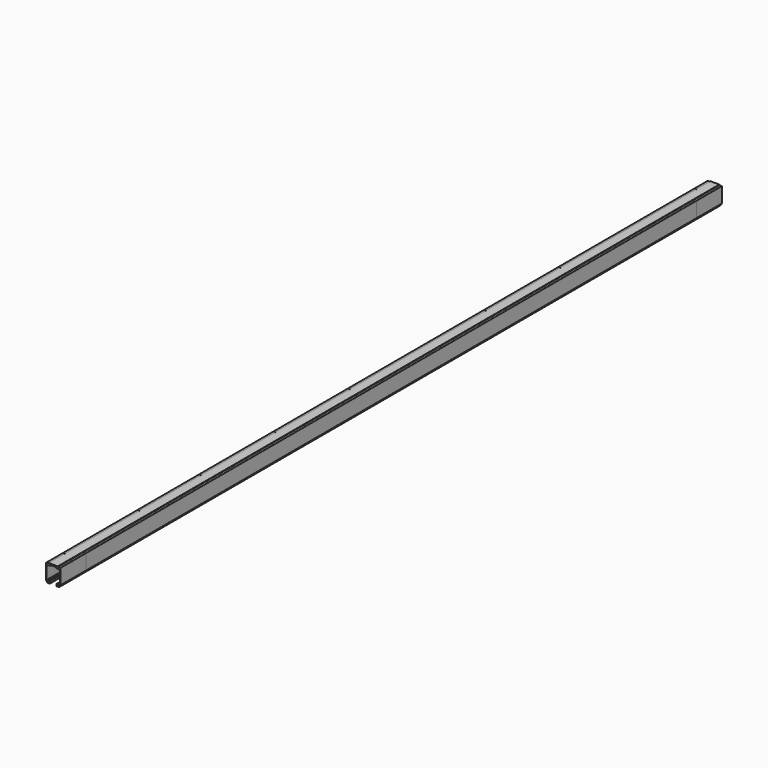
from build123d import *

# Parameters (mm, degrees)
F1_DEPTH = 2000
F2_W     = 77.452898
F2_H     = 36.363198
F3_DEPTH = 0.01
F4_W     = 77.630281
F4_H     = 36.363198
F5_DEPTH = 0.01
F6_W     = 77.450745
F6_H     = 36.363198
F7_DEPTH = 0.01
F8_W     = 77.298671
F8_H     = 36.363198
F9_DEPTH = 0.01


with BuildPart() as f1:
    # F0 (on Front) → F1 (new body)
    with BuildSketch(Plane.XZ):
        with BuildLine():
            Line((10.7, 42.5), (0, 42.5))
            Line((0, 42.5), (-10.7, 42.5))
            ThreePointArc((-10.7, 42.5), (-11.053553, 42.353553), (-11.2, 42))
            Line((-11.2, 42), (-11.2, 41.8))
            ThreePointArc((-11.2, 41.8), (-11.346447, 41.446447), (-11.7, 41.3))
            Line((-11.7, 41.3), (-16.8, 41.3))
            ThreePointArc((-16.8, 41.3), (-17.153553, 41.153553), (-17.3, 40.8))
            Line((-17.3, 40.8), (-17.3, 4.436802))
            ThreePointArc((-17.3, 4.436802), (-17.282274, 4.30485), (-17.230355, 4.182253))
            Line((-17.230355, 4.182253), (-14.340362, -0.703734))
            ThreePointArc((-14.340362, -0.703734), (-14.157723, -0.883509), (-13.910008, -0.949185))
            Line((-13.910008, -0.949185), (-8.930355, -0.949185))
            ThreePointArc((-8.930355, -0.949185), (-8.223248, -0.656292), (-7.930355, 0.050815))
            Line((-7.930355, 0.050815), (-7.930355, 4.050815))
            ThreePointArc((-7.930355, 4.050815), (-8.076801, 4.404368), (-8.430355, 4.550815))
            ThreePointArc((-8.430355, 4.550815), (-8.783908, 4.404368), (-8.930355, 4.050815))
            Line((-8.930355, 4.050815), (-8.930355, 1.050815))
            ThreePointArc((-8.930355, 1.050815), (-9.076801, 0.697261), (-9.430355, 0.550815))
            Line((-9.430355, 0.550815), (-13.580355, 0.550815))
            ThreePointArc((-13.580355, 0.550815), (-13.933908, 0.697261), (-14.080355, 1.050815))
            Line((-14.080355, 1.050815), (-14.080355, 4.050815))
            ThreePointArc((-14.080355, 4.050815), (-14.226801, 4.404368), (-14.580355, 4.550815))
            Line((-14.580355, 4.550815), (-15.42378, 4.550815))
            ThreePointArc((-15.42378, 4.550815), (-15.779635, 4.699578), (-15.923738, 5.057345))
            Line((-15.923738, 5.057345), (-15.923738, 32.498142))
            ThreePointArc((-15.923738, 32.498142), (-14.460109, 36.032838), (-10.926105, 37.498141))
            Line((-10.926105, 37.498141), (-7.499763, 37.499763))
            ThreePointArc((-7.499763, 37.499763), (-7.146363, 37.646294), (-7, 37.999763))
            Line((-7, 37.999763), (-7, 39))
            ThreePointArc((-7, 39), (-6.853553, 39.353553), (-6.5, 39.5))
            Line((-6.5, 39.5), (0, 39.5))
            Line((0, 39.5), (6.5, 39.5))
            ThreePointArc((6.5, 39.5), (6.853553, 39.353553), (7, 39))
            Line((7, 39), (7, 37.999763))
            ThreePointArc((7, 37.999763), (7.146363, 37.646294), (7.499763, 37.499763))
            Line((7.499763, 37.499763), (10.926105, 37.498141))
            ThreePointArc((10.926105, 37.498141), (14.460109, 36.032838), (15.923738, 32.498142))
            Line((15.923738, 32.498142), (15.923738, 5.057345))
            ThreePointArc((15.923738, 5.057345), (15.779635, 4.699578), (15.42378, 4.550815))
            Line((15.42378, 4.550815), (14.580355, 4.550815))
            ThreePointArc((14.580355, 4.550815), (14.226801, 4.404368), (14.080355, 4.050815))
            Line((14.080355, 4.050815), (14.080355, 1.050815))
            ThreePointArc((14.080355, 1.050815), (13.933908, 0.697261), (13.580355, 0.550815))
            Line((13.580355, 0.550815), (9.430355, 0.550815))
            ThreePointArc((9.430355, 0.550815), (9.076801, 0.697261), (8.930355, 1.050815))
            Line((8.930355, 1.050815), (8.930355, 4.050815))
            ThreePointArc((8.930355, 4.050815), (8.783908, 4.404368), (8.430355, 4.550815))
            ThreePointArc((8.430355, 4.550815), (8.076801, 4.404368), (7.930355, 4.050815))
            Line((7.930355, 4.050815), (7.930355, 0.050815))
            ThreePointArc((7.930355, 0.050815), (8.223248, -0.656292), (8.930355, -0.949185))
            Line((8.930355, -0.949185), (13.910008, -0.949185))
            ThreePointArc((13.910008, -0.949185), (14.157723, -0.883509), (14.340362, -0.703734))
            Line((14.340362, -0.703734), (17.230355, 4.182253))
            ThreePointArc((17.230355, 4.182253), (17.282274, 4.30485), (17.3, 4.436802))
            Line((17.3, 4.436802), (17.3, 40.8))
            ThreePointArc((17.3, 40.8), (17.153553, 41.153553), (16.8, 41.3))
            Line((16.8, 41.3), (11.7, 41.3))
            ThreePointArc((11.7, 41.3), (11.346447, 41.446447), (11.2, 41.8))
            Line((11.2, 41.8), (11.2, 42))
            ThreePointArc((11.2, 42), (11.053553, 42.353553), (10.7, 42.5))
        make_face()
    extrude(amount=F1_DEPTH)

    # F2 (on face) → F3 (join)
    with BuildSketch(Plane.YZ.offset(17.3)):
        with Locations((-1961.273551, 22.618401)):
            Rectangle(F2_W, F2_H)
    extrude(amount=F3_DEPTH)

    # F4 (on face) → F5 (join)
    with BuildSketch(Plane(origin=(-17.3, 0, 0), x_dir=(0, -1, 0), z_dir=(-1, 0, 0))):
        with Locations((1961.184859, 22.618401)):
            Rectangle(F4_W, F4_H)
    extrude(amount=F5_DEPTH)

    # F6 (on face) → F7 (join)
    with BuildSketch(Plane(origin=(-17.3, 0, 0), x_dir=(0, -1, 0), z_dir=(-1, 0, 0))):
        with Locations((38.725372, 22.618401)):
            Rectangle(F6_W, F6_H)
    extrude(amount=F7_DEPTH)

    # F8 (on face) → F9 (join)
    with BuildSketch(Plane.YZ.offset(17.3)):
        with Locations((-38.649335, 22.618401)):
            Rectangle(F8_W, F8_H)
    extrude(amount=F9_DEPTH)


solid = f1.part
